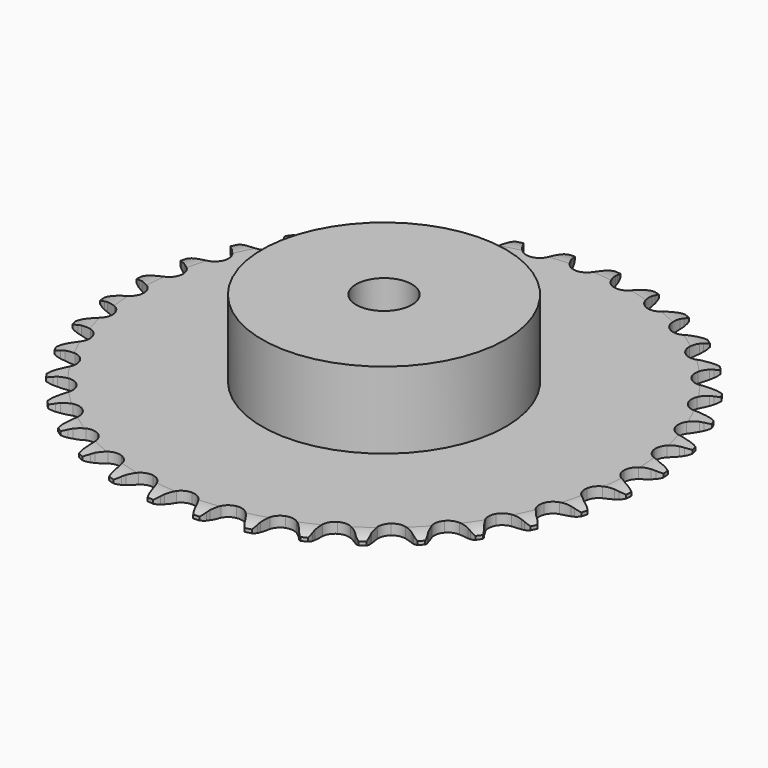
from build123d import *

# Parameters (mm, degrees)
PAD_DEPTH         = 3
SKETCH001_R       = 35
PAD001_DEPTH      = 25
SKETCH002_R       = 8
POCKET_DEPTH      = 0.001
POCKET_DEPTH_BACK = 25.001


with BuildPart() as part:
    # Sprocket → Pad (new body)
    with BuildSketch(Plane.XY):
        with BuildLine():
            ThreePointArc((-6.708023, 76.673049), (-5.645526, 75.493021), (-4.91278, 74.084317))
            Line((-4.91278, 74.084317), (-4.534736, 73.058049))
            ThreePointArc((-4.534736, 73.058049), (-3.936112, 71.7343), (-3.154329, 70.509768))
            ThreePointArc((-3.154329, 70.509768), (-1.764892, 69.343891), (0, 68.925604))
            ThreePointArc((0, 68.925604), (1.764892, 69.343891), (3.154329, 70.509768))
            ThreePointArc((3.154329, 70.509768), (3.936112, 71.7343), (4.534736, 73.058049))
            Line((4.534736, 73.058049), (4.91278, 74.084317))
            ThreePointArc((4.91278, 74.084317), (5.645526, 75.493021), (6.708023, 76.673049))
            ThreePointArc((6.708023, 76.673049), (7.549468, 75.326448), (8.026462, 73.811905))
            Line((8.026462, 73.811905), (8.220554, 72.735582))
            ThreePointArc((8.220554, 72.735582), (8.580216, 71.327993), (9.137485, 69.98631))
            ThreePointArc((9.137485, 69.98631), (10.303361, 68.596872), (11.968806, 67.878469))
            ThreePointArc((11.968806, 67.878469), (13.779519, 67.983931), (15.350301, 68.890823))
            Line((15.350301, 68.890823), (17.15224, 71.160685))
            ThreePointArc((17.15224, 71.160685), (17.414735, 71.640632), (17.702751, 72.105714))
            ThreePointArc((17.702751, 72.105714), (18.668983, 73.365778), (19.920248, 74.343377))
            ThreePointArc((19.920248, 74.343377), (20.515075, 72.871119), (20.721825, 71.296755))
            Line((20.721825, 71.296755), (20.726067, 70.203081))
            ThreePointArc((20.726067, 70.203081), (20.83584, 68.754422), (21.151661, 67.336353))
            ThreePointArc((21.151661, 67.336353), (22.058552, 65.765571), (23.573945, 64.768882))
            ThreePointArc((23.573945, 64.768882), (25.375463, 64.558314), (27.079861, 65.178664))
            Line((27.079861, 65.178664), (29.248582, 67.101139))
            ThreePointArc((29.248582, 67.101139), (29.590432, 67.528213), (29.954832, 67.936216))
            ThreePointArc((29.954832, 67.936216), (31.125193, 69.009352), (32.527207, 69.75482))
            ThreePointArc((32.527207, 69.75482), (32.857342, 68.201637), (32.787566, 66.61529))
            Line((32.787566, 66.61529), (32.601828, 65.537494))
            ThreePointArc((32.601828, 65.537494), (32.458376, 64.091782), (32.523155, 62.640415))
            ThreePointArc((32.523155, 62.640415), (33.143505, 60.936017), (34.462802, 59.691324))
            ThreePointArc((34.462802, 59.691324), (36.200386, 59.171126), (37.986613, 59.486085))
            Line((37.986613, 59.486085), (40.456221, 61.002759))
            ThreePointArc((40.456221, 61.002759), (40.867038, 61.363983), (41.296751, 61.70251))
            ThreePointArc((41.296751, 61.70251), (42.63568, 62.556111), (44.145843, 63.046797))
            ThreePointArc((44.145843, 63.046797), (44.201255, 61.459884), (43.857073, 59.909753))
            Line((43.857073, 59.909753), (43.487, 58.880584))
            ThreePointArc((43.487, 58.880584), (43.094682, 57.481746), (42.906449, 56.04118))
            ThreePointArc((42.906449, 56.04118), (43.221409, 54.254953), (44.304524, 52.800076))
            ThreePointArc((44.304524, 52.800076), (45.925379, 51.986052), (47.739162, 51.986052))
            Line((47.739162, 51.986052), (50.434618, 53.050841))
            ThreePointArc((50.434618, 53.050841), (50.901919, 53.33524), (51.383889, 53.594005))
            ThreePointArc((51.383889, 53.594005), (52.850702, 54.202136), (54.42313, 54.42313))
            ThreePointArc((54.42313, 54.42313), (54.202136, 52.850702), (53.594005, 51.383889))
            Line((53.594005, 51.383889), (53.050841, 50.434618))
            ThreePointArc((53.050841, 50.434618), (52.421577, 49.125156), (51.986052, 47.739162))
            ThreePointArc((51.986052, 47.739162), (51.986052, 45.925379), (52.800076, 44.304524))
            ThreePointArc((52.800076, 44.304524), (54.254953, 43.221409), (56.04118, 42.906449))
            Line((56.04118, 42.906449), (58.880584, 43.487))
            ThreePointArc((58.880584, 43.487), (59.390172, 43.685932), (59.909753, 43.857073))
            ThreePointArc((59.909753, 43.857073), (61.459884, 44.201255), (63.046797, 44.145843))
            ThreePointArc((63.046797, 44.145843), (62.556111, 42.63568), (61.70251, 41.296751))
            Line((61.70251, 41.296751), (61.002759, 40.456221))
            ThreePointArc((61.002759, 40.456221), (60.15567, 39.275923), (59.486085, 37.986613))
            ThreePointArc((59.486085, 37.986613), (59.171126, 36.200386), (59.691324, 34.462802))
            ThreePointArc((59.691324, 34.462802), (60.936017, 33.143505), (62.640415, 32.523155))
            Line((62.640415, 32.523155), (65.537494, 32.601828))
            ThreePointArc((65.537494, 32.601828), (66.073884, 32.70925), (66.61529, 32.787566))
            ThreePointArc((66.61529, 32.787566), (68.201637, 32.857342), (69.75482, 32.527207))
            ThreePointArc((69.75482, 32.527207), (69.009352, 31.125193), (67.936216, 29.954832))
            Line((67.936216, 29.954832), (67.101139, 29.248582))
            ThreePointArc((67.101139, 29.248582), (66.061962, 28.233311), (65.178664, 27.079861))
            ThreePointArc((65.178664, 27.079861), (64.558314, 25.375463), (64.768882, 23.573945))
            ThreePointArc((64.768882, 23.573945), (65.765571, 22.058552), (67.336353, 21.151661))
            Line((67.336353, 21.151661), (70.203081, 20.726067))
            ThreePointArc((70.203081, 20.726067), (70.749975, 20.738713), (71.296755, 20.721825))
            ThreePointArc((71.296755, 20.721825), (72.871119, 20.515075), (74.343377, 19.920248))
            ThreePointArc((74.343377, 19.920248), (73.365778, 18.668983), (72.105714, 17.702751))
            Line((72.105714, 17.702751), (71.160685, 17.15224))
            ThreePointArc((71.160685, 17.15224), (69.960996, 16.332844), (68.890823, 15.350301))
            ThreePointArc((68.890823, 15.350301), (67.983931, 13.779519), (67.878469, 11.968806))
            ThreePointArc((67.878469, 11.968806), (68.596872, 10.303361), (69.98631, 9.137485))
            Line((69.98631, 9.137485), (72.735582, 8.220554))
            ThreePointArc((72.735582, 8.220554), (73.276364, 8.138041), (73.811905, 8.026462))
            ThreePointArc((73.811905, 8.026462), (75.326448, 7.549468), (76.673049, 6.708023))
            ThreePointArc((76.673049, 6.708023), (75.493021, 5.645526), (74.084317, 4.91278))
            Line((74.084317, 4.91278), (73.058049, 4.534736))
            ThreePointArc((73.058049, 4.534736), (71.7343, 3.936112), (70.509768, 3.154329))
            ThreePointArc((70.509768, 3.154329), (69.343891, 1.764892), (68.925604, 0))
            ThreePointArc((68.925604, 0), (69.343891, -1.764892), (70.509768, -3.154329))
            Line((70.509768, -3.154329), (73.058049, -4.534736))
            ThreePointArc((73.058049, -4.534736), (73.576287, -4.709901), (74.084317, -4.91278))
            ThreePointArc((74.084317, -4.91278), (75.493021, -5.645526), (76.673049, -6.708023))
            ThreePointArc((76.673049, -6.708023), (75.326448, -7.549468), (73.811905, -8.026462))
            Line((73.811905, -8.026462), (72.735582, -8.220554))
            ThreePointArc((72.735582, -8.220554), (71.327993, -8.580216), (69.98631, -9.137485))
            ThreePointArc((69.98631, -9.137485), (68.596872, -10.303361), (67.878469, -11.968806))
            ThreePointArc((67.878469, -11.968806), (67.983931, -13.779519), (68.890823, -15.350301))
            Line((68.890823, -15.350301), (71.160685, -17.15224))
            ThreePointArc((71.160685, -17.15224), (71.640632, -17.414735), (72.105714, -17.702751))
            ThreePointArc((72.105714, -17.702751), (73.365778, -18.668983), (74.343377, -19.920248))
            ThreePointArc((74.343377, -19.920248), (72.871119, -20.515075), (71.296755, -20.721825))
            Line((71.296755, -20.721825), (70.203081, -20.726067))
            ThreePointArc((70.203081, -20.726067), (68.754422, -20.83584), (67.336353, -21.151661))
            ThreePointArc((67.336353, -21.151661), (65.765571, -22.058552), (64.768882, -23.573945))
            ThreePointArc((64.768882, -23.573945), (64.558314, -25.375463), (65.178664, -27.079861))
            Line((65.178664, -27.079861), (67.101139, -29.248582))
            ThreePointArc((67.101139, -29.248582), (67.528213, -29.590432), (67.936216, -29.954832))
            ThreePointArc((67.936216, -29.954832), (69.009352, -31.125193), (69.75482, -32.527207))
            ThreePointArc((69.75482, -32.527207), (68.201637, -32.857342), (66.61529, -32.787566))
            Line((66.61529, -32.787566), (65.537494, -32.601828))
            ThreePointArc((65.537494, -32.601828), (64.091782, -32.458376), (62.640415, -32.523155))
            ThreePointArc((62.640415, -32.523155), (60.936017, -33.143505), (59.691324, -34.462802))
            ThreePointArc((59.691324, -34.462802), (59.171126, -36.200386), (59.486085, -37.986613))
            Line((59.486085, -37.986613), (61.002759, -40.456221))
            ThreePointArc((61.002759, -40.456221), (61.363983, -40.867038), (61.70251, -41.296751))
            ThreePointArc((61.70251, -41.296751), (62.556111, -42.63568), (63.046797, -44.145843))
            ThreePointArc((63.046797, -44.145843), (61.459884, -44.201255), (59.909753, -43.857073))
            Line((59.909753, -43.857073), (58.880584, -43.487))
            ThreePointArc((58.880584, -43.487), (57.481746, -43.094682), (56.04118, -42.906449))
            ThreePointArc((56.04118, -42.906449), (54.254953, -43.221409), (52.800076, -44.304524))
            ThreePointArc((52.800076, -44.304524), (51.986052, -45.925379), (51.986052, -47.739162))
            Line((51.986052, -47.739162), (53.050841, -50.434618))
            ThreePointArc((53.050841, -50.434618), (53.33524, -50.901919), (53.594005, -51.383889))
            ThreePointArc((53.594005, -51.383889), (54.202136, -52.850702), (54.42313, -54.42313))
            ThreePointArc((54.42313, -54.42313), (52.850702, -54.202136), (51.383889, -53.594005))
            Line((51.383889, -53.594005), (50.434618, -53.050841))
            ThreePointArc((50.434618, -53.050841), (49.125156, -52.421577), (47.739162, -51.986052))
            ThreePointArc((47.739162, -51.986052), (45.925379, -51.986052), (44.304524, -52.800076))
            ThreePointArc((44.304524, -52.800076), (43.221409, -54.254953), (42.906449, -56.04118))
            Line((42.906449, -56.04118), (43.487, -58.880584))
            ThreePointArc((43.487, -58.880584), (43.685932, -59.390172), (43.857073, -59.909753))
            ThreePointArc((43.857073, -59.909753), (44.201255, -61.459884), (44.145843, -63.046797))
            ThreePointArc((44.145843, -63.046797), (42.63568, -62.556111), (41.296751, -61.70251))
            Line((41.296751, -61.70251), (40.456221, -61.002759))
            ThreePointArc((40.456221, -61.002759), (39.275923, -60.15567), (37.986613, -59.486085))
            ThreePointArc((37.986613, -59.486085), (36.200386, -59.171126), (34.462802, -59.691324))
            ThreePointArc((34.462802, -59.691324), (33.143505, -60.936017), (32.523155, -62.640415))
            Line((32.523155, -62.640415), (32.601828, -65.537494))
            ThreePointArc((32.601828, -65.537494), (32.70925, -66.073884), (32.787566, -66.61529))
            ThreePointArc((32.787566, -66.61529), (32.857342, -68.201637), (32.527207, -69.75482))
            ThreePointArc((32.527207, -69.75482), (31.125193, -69.009352), (29.954832, -67.936216))
            Line((29.954832, -67.936216), (29.248582, -67.101139))
            ThreePointArc((29.248582, -67.101139), (28.233311, -66.061962), (27.079861, -65.178664))
            ThreePointArc((27.079861, -65.178664), (25.375463, -64.558314), (23.573945, -64.768882))
            ThreePointArc((23.573945, -64.768882), (22.058552, -65.765571), (21.151661, -67.336353))
            Line((21.151661, -67.336353), (20.726067, -70.203081))
            ThreePointArc((20.726067, -70.203081), (20.738713, -70.749975), (20.721825, -71.296755))
            ThreePointArc((20.721825, -71.296755), (20.515075, -72.871119), (19.920248, -74.343377))
            ThreePointArc((19.920248, -74.343377), (18.668983, -73.365778), (17.702751, -72.105714))
            Line((17.702751, -72.105714), (17.15224, -71.160685))
            ThreePointArc((17.15224, -71.160685), (16.332844, -69.960996), (15.350301, -68.890823))
            ThreePointArc((15.350301, -68.890823), (13.779519, -67.983931), (11.968806, -67.878469))
            ThreePointArc((11.968806, -67.878469), (10.303361, -68.596872), (9.137485, -69.98631))
            Line((9.137485, -69.98631), (8.220554, -72.735582))
            ThreePointArc((8.220554, -72.735582), (8.138041, -73.276364), (8.026462, -73.811905))
            ThreePointArc((8.026462, -73.811905), (7.549468, -75.326448), (6.708023, -76.673049))
            ThreePointArc((6.708023, -76.673049), (5.645526, -75.493021), (4.91278, -74.084317))
            Line((4.91278, -74.084317), (4.534736, -73.058049))
            ThreePointArc((4.534736, -73.058049), (3.936112, -71.7343), (3.154329, -70.509768))
            ThreePointArc((3.154329, -70.509768), (1.764892, -69.343891), (0, -68.925604))
            ThreePointArc((0, -68.925604), (-1.764892, -69.343891), (-3.154329, -70.509768))
            Line((-3.154329, -70.509768), (-4.534736, -73.058049))
            ThreePointArc((-4.534736, -73.058049), (-4.709901, -73.576287), (-4.91278, -74.084317))
            ThreePointArc((-4.91278, -74.084317), (-5.645526, -75.493021), (-6.708023, -76.673049))
            ThreePointArc((-6.708023, -76.673049), (-7.549468, -75.326448), (-8.026462, -73.811905))
            Line((-8.026462, -73.811905), (-8.220554, -72.735582))
            ThreePointArc((-8.220554, -72.735582), (-8.580216, -71.327993), (-9.137485, -69.98631))
            ThreePointArc((-9.137485, -69.98631), (-10.303361, -68.596872), (-11.968806, -67.878469))
            ThreePointArc((-11.968806, -67.878469), (-13.779519, -67.983931), (-15.350301, -68.890823))
            Line((-15.350301, -68.890823), (-17.15224, -71.160685))
            ThreePointArc((-17.15224, -71.160685), (-17.414735, -71.640632), (-17.702751, -72.105714))
            ThreePointArc((-17.702751, -72.105714), (-18.668983, -73.365778), (-19.920248, -74.343377))
            ThreePointArc((-19.920248, -74.343377), (-20.515075, -72.871119), (-20.721825, -71.296755))
            Line((-20.721825, -71.296755), (-20.726067, -70.203081))
            ThreePointArc((-20.726067, -70.203081), (-20.83584, -68.754422), (-21.151661, -67.336353))
            ThreePointArc((-21.151661, -67.336353), (-22.058552, -65.765571), (-23.573945, -64.768882))
            ThreePointArc((-23.573945, -64.768882), (-25.375463, -64.558314), (-27.079861, -65.178664))
            Line((-27.079861, -65.178664), (-29.248582, -67.101139))
            ThreePointArc((-29.248582, -67.101139), (-29.590432, -67.528213), (-29.954832, -67.936216))
            ThreePointArc((-29.954832, -67.936216), (-31.125193, -69.009352), (-32.527207, -69.75482))
            ThreePointArc((-32.527207, -69.75482), (-32.857342, -68.201637), (-32.787566, -66.61529))
            Line((-32.787566, -66.61529), (-32.601828, -65.537494))
            ThreePointArc((-32.601828, -65.537494), (-32.458376, -64.091782), (-32.523155, -62.640415))
            ThreePointArc((-32.523155, -62.640415), (-33.143505, -60.936017), (-34.462802, -59.691324))
            ThreePointArc((-34.462802, -59.691324), (-36.200386, -59.171126), (-37.986613, -59.486085))
            Line((-37.986613, -59.486085), (-40.456221, -61.002759))
            ThreePointArc((-40.456221, -61.002759), (-40.867038, -61.363983), (-41.296751, -61.70251))
            ThreePointArc((-41.296751, -61.70251), (-42.63568, -62.556111), (-44.145843, -63.046797))
            ThreePointArc((-44.145843, -63.046797), (-44.201255, -61.459884), (-43.857073, -59.909753))
            Line((-43.857073, -59.909753), (-43.487, -58.880584))
            ThreePointArc((-43.487, -58.880584), (-43.094682, -57.481746), (-42.906449, -56.04118))
            ThreePointArc((-42.906449, -56.04118), (-43.221409, -54.254953), (-44.304524, -52.800076))
            ThreePointArc((-44.304524, -52.800076), (-45.925379, -51.986052), (-47.739162, -51.986052))
            Line((-47.739162, -51.986052), (-50.434618, -53.050841))
            ThreePointArc((-50.434618, -53.050841), (-50.901919, -53.33524), (-51.383889, -53.594005))
            ThreePointArc((-51.383889, -53.594005), (-52.850702, -54.202136), (-54.42313, -54.42313))
            ThreePointArc((-54.42313, -54.42313), (-54.202136, -52.850702), (-53.594005, -51.383889))
            Line((-53.594005, -51.383889), (-53.050841, -50.434618))
            ThreePointArc((-53.050841, -50.434618), (-52.421577, -49.125156), (-51.986052, -47.739162))
            ThreePointArc((-51.986052, -47.739162), (-51.986052, -45.925379), (-52.800076, -44.304524))
            ThreePointArc((-52.800076, -44.304524), (-54.254953, -43.221409), (-56.04118, -42.906449))
            Line((-56.04118, -42.906449), (-58.880584, -43.487))
            ThreePointArc((-58.880584, -43.487), (-59.390172, -43.685932), (-59.909753, -43.857073))
            ThreePointArc((-59.909753, -43.857073), (-61.459884, -44.201255), (-63.046797, -44.145843))
            ThreePointArc((-63.046797, -44.145843), (-62.556111, -42.63568), (-61.70251, -41.296751))
            Line((-61.70251, -41.296751), (-61.002759, -40.456221))
            ThreePointArc((-61.002759, -40.456221), (-60.15567, -39.275923), (-59.486085, -37.986613))
            ThreePointArc((-59.486085, -37.986613), (-59.171126, -36.200386), (-59.691324, -34.462802))
            ThreePointArc((-59.691324, -34.462802), (-60.936017, -33.143505), (-62.640415, -32.523155))
            Line((-62.640415, -32.523155), (-65.537494, -32.601828))
            ThreePointArc((-65.537494, -32.601828), (-66.073884, -32.70925), (-66.61529, -32.787566))
            ThreePointArc((-66.61529, -32.787566), (-68.201637, -32.857342), (-69.75482, -32.527207))
            ThreePointArc((-69.75482, -32.527207), (-69.009352, -31.125193), (-67.936216, -29.954832))
            Line((-67.936216, -29.954832), (-67.101139, -29.248582))
            ThreePointArc((-67.101139, -29.248582), (-66.061962, -28.233311), (-65.178664, -27.079861))
            ThreePointArc((-65.178664, -27.079861), (-64.558314, -25.375463), (-64.768882, -23.573945))
            ThreePointArc((-64.768882, -23.573945), (-65.765571, -22.058552), (-67.336353, -21.151661))
            Line((-67.336353, -21.151661), (-70.203081, -20.726067))
            ThreePointArc((-70.203081, -20.726067), (-70.749975, -20.738713), (-71.296755, -20.721825))
            ThreePointArc((-71.296755, -20.721825), (-72.871119, -20.515075), (-74.343377, -19.920248))
            ThreePointArc((-74.343377, -19.920248), (-73.365778, -18.668983), (-72.105714, -17.702751))
            Line((-72.105714, -17.702751), (-71.160685, -17.15224))
            ThreePointArc((-71.160685, -17.15224), (-69.960996, -16.332844), (-68.890823, -15.350301))
            ThreePointArc((-68.890823, -15.350301), (-67.983931, -13.779519), (-67.878469, -11.968806))
            ThreePointArc((-67.878469, -11.968806), (-68.596872, -10.303361), (-69.98631, -9.137485))
            Line((-69.98631, -9.137485), (-72.735582, -8.220554))
            ThreePointArc((-72.735582, -8.220554), (-73.276364, -8.138041), (-73.811905, -8.026462))
            ThreePointArc((-73.811905, -8.026462), (-75.326448, -7.549468), (-76.673049, -6.708023))
            ThreePointArc((-76.673049, -6.708023), (-75.493021, -5.645526), (-74.084317, -4.91278))
            Line((-74.084317, -4.91278), (-73.058049, -4.534736))
            ThreePointArc((-73.058049, -4.534736), (-71.7343, -3.936112), (-70.509768, -3.154329))
            ThreePointArc((-70.509768, -3.154329), (-69.343891, -1.764892), (-68.925604, 0))
            ThreePointArc((-68.925604, 0), (-69.343891, 1.764892), (-70.509768, 3.154329))
            Line((-70.509768, 3.154329), (-73.058049, 4.534736))
            ThreePointArc((-73.058049, 4.534736), (-73.576287, 4.709901), (-74.084317, 4.91278))
            ThreePointArc((-74.084317, 4.91278), (-75.493021, 5.645526), (-76.673049, 6.708023))
            ThreePointArc((-76.673049, 6.708023), (-75.326448, 7.549468), (-73.811905, 8.026462))
            Line((-73.811905, 8.026462), (-72.735582, 8.220554))
            ThreePointArc((-72.735582, 8.220554), (-71.327993, 8.580216), (-69.98631, 9.137485))
            ThreePointArc((-69.98631, 9.137485), (-68.596872, 10.303361), (-67.878469, 11.968806))
            ThreePointArc((-67.878469, 11.968806), (-67.983931, 13.779519), (-68.890823, 15.350301))
            Line((-68.890823, 15.350301), (-71.160685, 17.15224))
            ThreePointArc((-71.160685, 17.15224), (-71.640632, 17.414735), (-72.105714, 17.702751))
            ThreePointArc((-72.105714, 17.702751), (-73.365778, 18.668983), (-74.343377, 19.920248))
            ThreePointArc((-74.343377, 19.920248), (-72.871119, 20.515075), (-71.296755, 20.721825))
            Line((-71.296755, 20.721825), (-70.203081, 20.726067))
            ThreePointArc((-70.203081, 20.726067), (-68.754422, 20.83584), (-67.336353, 21.151661))
            ThreePointArc((-67.336353, 21.151661), (-65.765571, 22.058552), (-64.768882, 23.573945))
            ThreePointArc((-64.768882, 23.573945), (-64.558314, 25.375463), (-65.178664, 27.079861))
            Line((-65.178664, 27.079861), (-67.101139, 29.248582))
            ThreePointArc((-67.101139, 29.248582), (-67.528213, 29.590432), (-67.936216, 29.954832))
            ThreePointArc((-67.936216, 29.954832), (-69.009352, 31.125193), (-69.75482, 32.527207))
            ThreePointArc((-69.75482, 32.527207), (-68.201637, 32.857342), (-66.61529, 32.787566))
            Line((-66.61529, 32.787566), (-65.537494, 32.601828))
            ThreePointArc((-65.537494, 32.601828), (-64.091782, 32.458376), (-62.640415, 32.523155))
            ThreePointArc((-62.640415, 32.523155), (-60.936017, 33.143505), (-59.691324, 34.462802))
            ThreePointArc((-59.691324, 34.462802), (-59.171126, 36.200386), (-59.486085, 37.986613))
            Line((-59.486085, 37.986613), (-61.002759, 40.456221))
            ThreePointArc((-61.002759, 40.456221), (-61.363983, 40.867038), (-61.70251, 41.296751))
            ThreePointArc((-61.70251, 41.296751), (-62.556111, 42.63568), (-63.046797, 44.145843))
            ThreePointArc((-63.046797, 44.145843), (-61.459884, 44.201255), (-59.909753, 43.857073))
            Line((-59.909753, 43.857073), (-58.880584, 43.487))
            ThreePointArc((-58.880584, 43.487), (-57.481746, 43.094682), (-56.04118, 42.906449))
            ThreePointArc((-56.04118, 42.906449), (-54.254953, 43.221409), (-52.800076, 44.304524))
            ThreePointArc((-52.800076, 44.304524), (-51.986052, 45.925379), (-51.986052, 47.739162))
            Line((-51.986052, 47.739162), (-53.050841, 50.434618))
            ThreePointArc((-53.050841, 50.434618), (-53.33524, 50.901919), (-53.594005, 51.383889))
            ThreePointArc((-53.594005, 51.383889), (-54.202136, 52.850702), (-54.42313, 54.42313))
            ThreePointArc((-54.42313, 54.42313), (-52.850702, 54.202136), (-51.383889, 53.594005))
            Line((-51.383889, 53.594005), (-50.434618, 53.050841))
            ThreePointArc((-50.434618, 53.050841), (-49.125156, 52.421577), (-47.739162, 51.986052))
            ThreePointArc((-47.739162, 51.986052), (-45.925379, 51.986052), (-44.304524, 52.800076))
            ThreePointArc((-44.304524, 52.800076), (-43.221409, 54.254953), (-42.906449, 56.04118))
            Line((-42.906449, 56.04118), (-43.487, 58.880584))
            ThreePointArc((-43.487, 58.880584), (-43.685932, 59.390172), (-43.857073, 59.909753))
            ThreePointArc((-43.857073, 59.909753), (-44.201255, 61.459884), (-44.145843, 63.046797))
            ThreePointArc((-44.145843, 63.046797), (-42.63568, 62.556111), (-41.296751, 61.70251))
            Line((-41.296751, 61.70251), (-40.456221, 61.002759))
            ThreePointArc((-40.456221, 61.002759), (-39.275923, 60.15567), (-37.986613, 59.486085))
            ThreePointArc((-37.986613, 59.486085), (-36.200386, 59.171126), (-34.462802, 59.691324))
            ThreePointArc((-34.462802, 59.691324), (-33.143505, 60.936017), (-32.523155, 62.640415))
            Line((-32.523155, 62.640415), (-32.601828, 65.537494))
            ThreePointArc((-32.601828, 65.537494), (-32.70925, 66.073884), (-32.787566, 66.61529))
            ThreePointArc((-32.787566, 66.61529), (-32.857342, 68.201637), (-32.527207, 69.75482))
            ThreePointArc((-32.527207, 69.75482), (-31.125193, 69.009352), (-29.954832, 67.936216))
            Line((-29.954832, 67.936216), (-29.248582, 67.101139))
            ThreePointArc((-29.248582, 67.101139), (-28.233311, 66.061962), (-27.079861, 65.178664))
            ThreePointArc((-27.079861, 65.178664), (-25.375463, 64.558314), (-23.573945, 64.768882))
            ThreePointArc((-23.573945, 64.768882), (-22.058552, 65.765571), (-21.151661, 67.336353))
            Line((-21.151661, 67.336353), (-20.726067, 70.203081))
            ThreePointArc((-20.726067, 70.203081), (-20.738713, 70.749975), (-20.721825, 71.296755))
            ThreePointArc((-20.721825, 71.296755), (-20.515075, 72.871119), (-19.920248, 74.343377))
            ThreePointArc((-19.920248, 74.343377), (-18.668983, 73.365778), (-17.702751, 72.105714))
            Line((-17.702751, 72.105714), (-17.15224, 71.160685))
            ThreePointArc((-17.15224, 71.160685), (-16.332844, 69.960996), (-15.350301, 68.890823))
            ThreePointArc((-15.350301, 68.890823), (-13.779519, 67.983931), (-11.968806, 67.878469))
            ThreePointArc((-11.968806, 67.878469), (-10.303361, 68.596872), (-9.137485, 69.98631))
            Line((-9.137485, 69.98631), (-8.220554, 72.735582))
            ThreePointArc((-8.220554, 72.735582), (-8.138041, 73.276364), (-8.026462, 73.811905))
            ThreePointArc((-8.026462, 73.811905), (-7.549468, 75.326448), (-6.708023, 76.673049))
        make_face()
    extrude(amount=PAD_DEPTH)

    # Sketch → Groove (revolve, cut)
    with BuildSketch(Plane.XZ):
        with BuildLine():
            Line((70.85, 0), (75.85, 0))
            Line((80.85, 0), (75.85, 0))
            Line((80.85, 3), (80.85, 0))
            Line((75.85, 3), (80.85, 3))
            Line((70.85, 3), (75.85, 3))
            ThreePointArc((75.85, 2), (73.39951, 2.747549), (70.85, 3))
            Line((75.85, 1), (75.85, 2))
            ThreePointArc((70.85, 0), (73.39951, 0.252451), (75.85, 1))
        make_face()
    revolve(axis=Axis((0, 0, 0), (0, 0, 1)), mode=Mode.SUBTRACT)

    # Sketch001 → Pad001 (join)
    with BuildSketch(Plane.XY):
        Circle(SKETCH001_R)
    extrude(amount=PAD001_DEPTH)

    # Sketch002 → Pocket (cut, two sides)
    with BuildSketch(Plane.XY) as pocket_sk:
        Circle(SKETCH002_R)
    extrude(amount=-POCKET_DEPTH, mode=Mode.SUBTRACT)
    extrude(pocket_sk.sketch, amount=POCKET_DEPTH_BACK, mode=Mode.SUBTRACT)


solid = part.part
